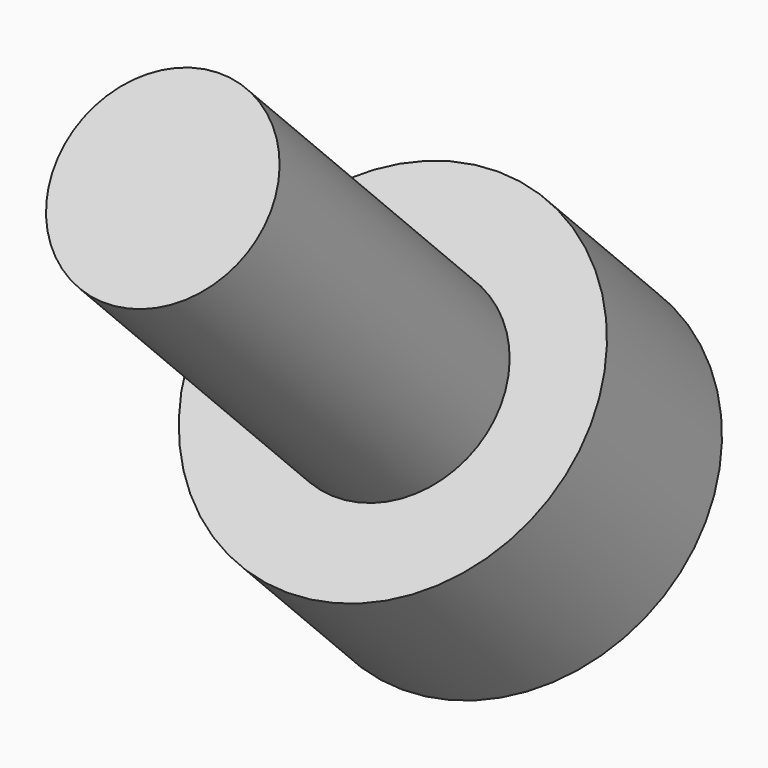
from build123d import *

# Parameters (mm, degrees)
SKETCH036_R             = 2.75
PAD021_DEPTH            = 3
SKETCH037_R             = 1.5
PAD022_DEPTH            = 6
POCKET017_DEPTH         = 4
BODY010_PLACEMENT_ANGLE = 225


with BuildPart() as part:
    # Sketch036 → Pad021 (new body)
    with BuildSketch(Plane.XY):
        Circle(SKETCH036_R)
    extrude(amount=PAD021_DEPTH)

    # Sketch037 (on Face2 of Pad021) → Pad022 (join)
    with BuildSketch(Plane(origin=(0, 0, 0), x_dir=(1, 0, 0), z_dir=(0, 0, -1))):
        Circle(SKETCH037_R)
    extrude(amount=PAD022_DEPTH)

    # Sketch038 (on DatumPlane) → Pocket017 (cut)
    with BuildSketch(Plane.XY.offset(3)):
        Polygon((0.721688, -1.25), (1.443376, 0), (0.721688, 1.25), (-0.721688, 1.25), (-1.443376, 0), (-0.721688, -1.25), align=None)
    extrude(amount=-POCKET017_DEPTH, mode=Mode.SUBTRACT)


with BuildPart() as part_1:
    # Body010 placement: moved
    add(part.part.moved(Location((-28.5, -61.871843, 6.010408))).rotate(Axis((-28.5, -61.871843, 6.010408), (1, 0, 0)), BODY010_PLACEMENT_ANGLE))


solid = part_1.part
